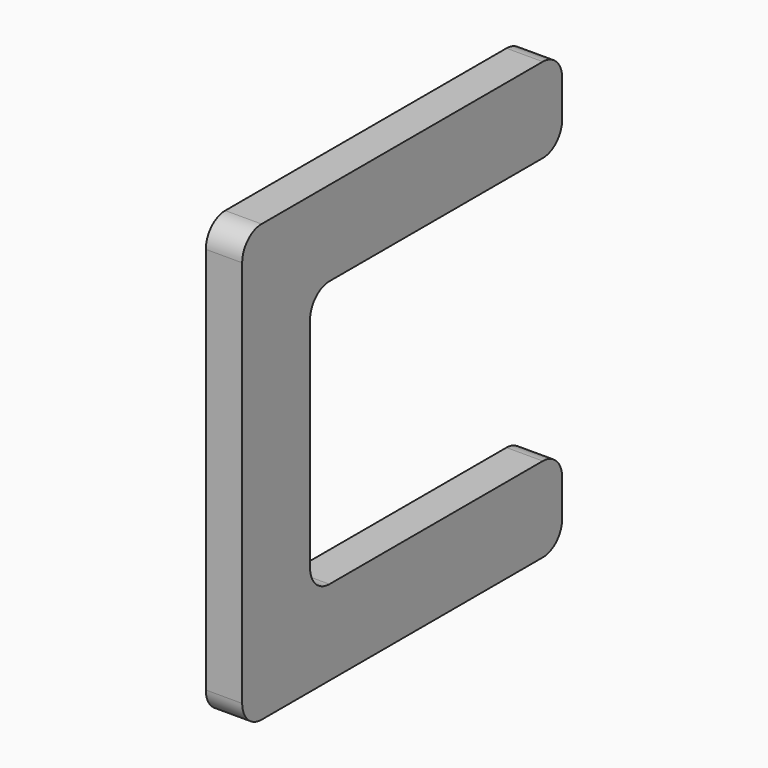
from build123d import *

# Parameters (mm, degrees)
F0_W     = 7
F0_H     = 22
F1_DEPTH = 3
F2_R     = 2


with BuildPart() as f1:
    # F0 (on Right) → F1 (new body)
    with BuildSketch(Plane.YZ):
        Polygon((0, 36), (0, 29), (7, 29), (33, 29), (33, 36), align=None)
        with Locations((3.5, 18)):
            Rectangle(F0_W, F0_H)
        Polygon((0, 7), (0, 0), (33, 0), (33, 7), (7, 7), align=None)
    extrude(amount=F1_DEPTH)

    # F2
    f2_edges = [f1.edges().sort_by_distance(p)[0] for p in [
        (1.5, 33, 36),
        (1.5, 33, 7),
        (1.5, 33, 29),
        (1.5, 33, 0),
        (1.5, 0, 0),
        (1.5, 0, 36),
        (1.5, 7, 7),
        (1.5, 7, 29),
    ]]
    fillet(f2_edges, radius=F2_R)


solid = f1.part
